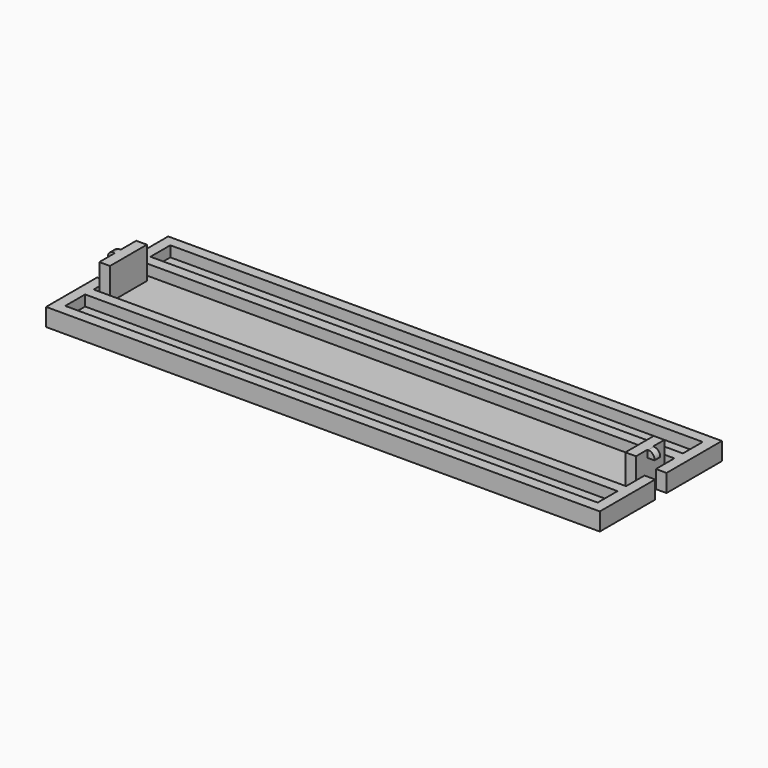
from build123d import *

# Parameters (mm, degrees)
F0_W     = 150
F0_H     = 3
F1_DEPTH = 5
F0_H_2   = 7
F2_DEPTH = 2
F3_DEPTH = 11
F5_W     = 2
F5_H     = 2
F6_DEPTH = 2
F7_R     = 1.5
F8_W     = 2
F8_H     = 2
F9_DEPTH = 2
F10_R    = 1.8


with BuildPart() as f1:
    # F0 (on Top) → F1 (new body)
    with BuildSketch(Plane.XY):
        Polygon((53.1447380781, 19.5), (-102.8552619219, 19.5), (-102.8552619219, 1.5), (-99.8552619219, 1.5), (-99.8552619219, 4.5), (-99.8552619219, 6.5), (-99.8552619219, 9.5), (-99.8552619219, 16.5), (50.1447380781, 16.5), (50.1447380781, 9.5), (50.1447380781, 6.5), (50.1447380781, 3), (50.1447380781, 0), (53.1447380781, 0), align=None)
        Polygon((-99.8552619219, 4.5), (-99.8552619219, 1.5), (-99.8552619219, -5.5), (-99.8552619219, -8.5), (-96.8552619219, -8.5), (-96.8552619219, 4.5), align=None)
        Polygon((-99.8552619219, -5.5), (-102.8552619219, -5.5), (-102.8552619219, -23.5), (53.1447380781, -23.5), (53.1447380781, -4), (50.1447380781, -4), (50.1447380781, -7), (50.1447380781, -10.5), (50.1447380781, -13.5), (50.1447380781, -20.5), (-99.8552619219, -20.5), (-99.8552619219, -13.5), (-99.8552619219, -10.5), (-99.8552619219, -8.5), align=None)
        with Locations((-24.8552619219, -12)):
            Rectangle(F0_W, F0_H)
        with Locations((-24.8552619219, 8)):
            Rectangle(F0_W, F0_H)
        Polygon((50.1447380781, -4), (50.1447380781, 0), (50.1447380781, 3), (47.1447380781, 3), (47.1447380781, -7), (50.1447380781, -7), align=None)
    extrude(amount=F1_DEPTH)

    # F0 (on Top) → F2 (join)
    with BuildSketch(Plane.XY):
        with Locations((-24.8552619219, 13)):
            Rectangle(F0_W, F0_H_2)
        Polygon((-99.8552619219, 6.5), (-99.8552619219, 4.5), (-96.8552619219, 4.5), (-96.8552619219, -8.5), (-99.8552619219, -8.5), (-99.8552619219, -10.5), (50.1447380781, -10.5), (50.1447380781, -7), (47.1447380781, -7), (47.1447380781, 3), (50.1447380781, 3), (50.1447380781, 6.5), align=None)
        with Locations((-24.8552619219, -17)):
            Rectangle(F0_W, F0_H_2)
    extrude(amount=F2_DEPTH)


with BuildPart() as f3:
    # F0 (on Top) → F3 (new body)
    with BuildSketch(Plane.XY):
        Polygon((-99.8552619219, 4.5), (-99.8552619219, 1.5), (-99.8552619219, -5.5), (-99.8552619219, -8.5), (-96.8552619219, -8.5), (-96.8552619219, 4.5), align=None)
    extrude(amount=F3_DEPTH)


with BuildPart() as f3b:
    # F0 (on Top) → F3, piece 2 (new body)
    with BuildSketch(Plane.XY):
        Polygon((50.1447380781, -4), (50.1447380781, 0), (50.1447380781, 3), (47.1447380781, 3), (47.1447380781, -7), (50.1447380781, -7), align=None)
    extrude(amount=F3_DEPTH)


with BuildPart() as f1_1:
    add(f1.part)

    # F4: union F3b, F3
    add(f3b.part)
    add(f3.part)

    # F5 (on face) → F6 (join)
    with BuildSketch(Plane(origin=(-99.8552619219, 0, 0), x_dir=(0, -1, 0), z_dir=(-1, 0, 0))):
        with Locations((2, 10)):
            Rectangle(F5_W, F5_H)
    extrude(amount=F6_DEPTH)

    # F7
    f7_edges = [f1_1.edges().sort_by_distance(p)[0] for p in [
        (-101.855262, -2, 11),
    ]]
    fillet(f7_edges, radius=F7_R)

    # F8 (on face) → F9 (join)
    with BuildSketch(Plane.YZ.offset(50.1447380781)):
        with Locations((-2, 10)):
            Rectangle(F8_W, F8_H)
    extrude(amount=F9_DEPTH)

    # F10
    f10_edges = [f1_1.edges().sort_by_distance(p)[0] for p in [
        (52.144738, -2, 11),
    ]]
    fillet(f10_edges, radius=F10_R)


solid = f1_1.part
